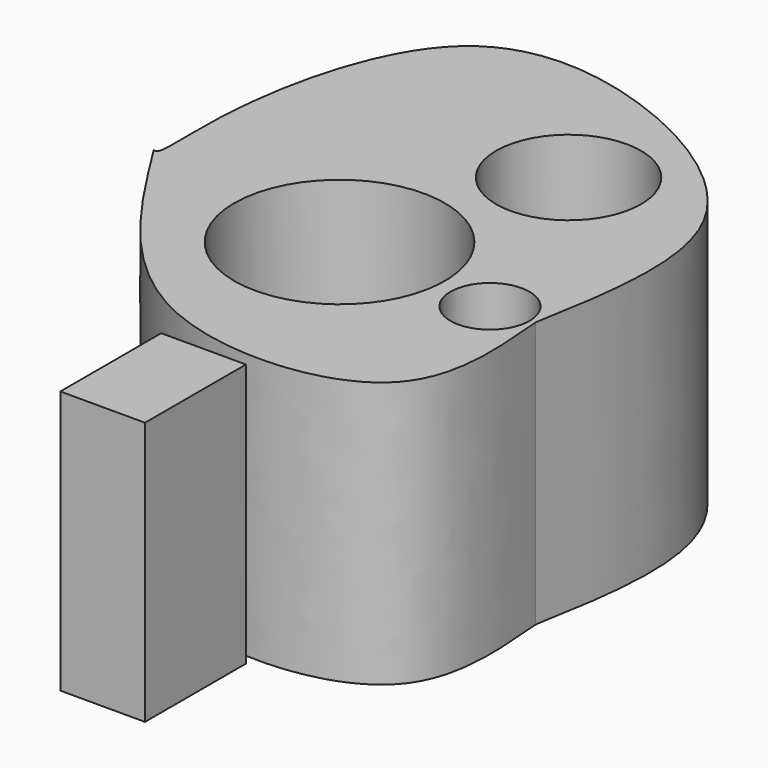
from build123d import *

# Parameters (mm, degrees)
F1_DEPTH = 51.308
F3_D     = 40.64
F5_D     = 15.24
F7_D     = 27.94
F9_DEPTH = 50.8


with BuildPart() as f1:
    # F0 (on Top) → F1 (new body)
    with BuildSketch(Plane.XY):
        with BuildLine():
            add(Edge.make_bspline(
                [(56.0124404728, -7.9644387588), (56.9753590395, -19.1102463597), (59.0514475401, -43.1410250669), (5.3467472158, -46.7995741419), (-13.7153867683, -16.4237299021), (-24.0219756961, 0)],
                knots=[0, 0, 0, 0, 0.284344005, 0.6130563262, 1, 1, 1, 1], degree=3))
            add(Edge.make_bspline(
                [(56.0124404728, -7.9644387588), (58.6142836782, 6.7744605313), (63.873201795, 36.5651352116), (21.6916803423, 61.9672567425), (-14.5502762604, 61.8700733376), (-24.4595201188, 19.0299783517), (-22.3291566988, -0.582370954), (-23.7799796516, -0.0832525318), (-24.0219756961, 0)],
                knots=[0, 0, 0, 0, 0.2162506935, 0.4370919382, 0.6208959046, 0.8361237682, 0.9726655828, 1, 1, 1, 1], degree=3))
        make_face()
    extrude(amount=F1_DEPTH)

    # F3 (through all)
    with Locations(Plane(origin=(0, 0, 0), x_dir=(1, 0, 0), z_dir=(0, 0, -1))):
        with Locations((16.5869705379, 5.9642544948)):
            Hole(F3_D / 2)

    # F5 (through all)
    with Locations(Plane(origin=(0, 0, 0), x_dir=(1, 0, 0), z_dir=(0, 0, -1))):
        with Locations((47.3761111498, 8.1799058244)):
            Hole(F5_D / 2)

    # F7 (through all)
    with Locations(Plane(origin=(0, 0, 0), x_dir=(1, 0, 0), z_dir=(0, 0, -1))):
        with Locations((30.3693879396, -32.0235900581)):
            Hole(F7_D / 2)


with BuildPart() as f9:
    # F8 (on Top) → F9 (new body)
    with BuildSketch(Plane.XY):
        Polygon((29.9152564257, -69.5262998343), (29.9152564257, -45.1982915401), (18.3138735592, -45.1982915401), (13.5864624754, -45.1982915401), (13.5864624754, -69.5262998343), align=None)
    extrude(amount=F9_DEPTH)


solid = Compound([f1.part, f9.part])
